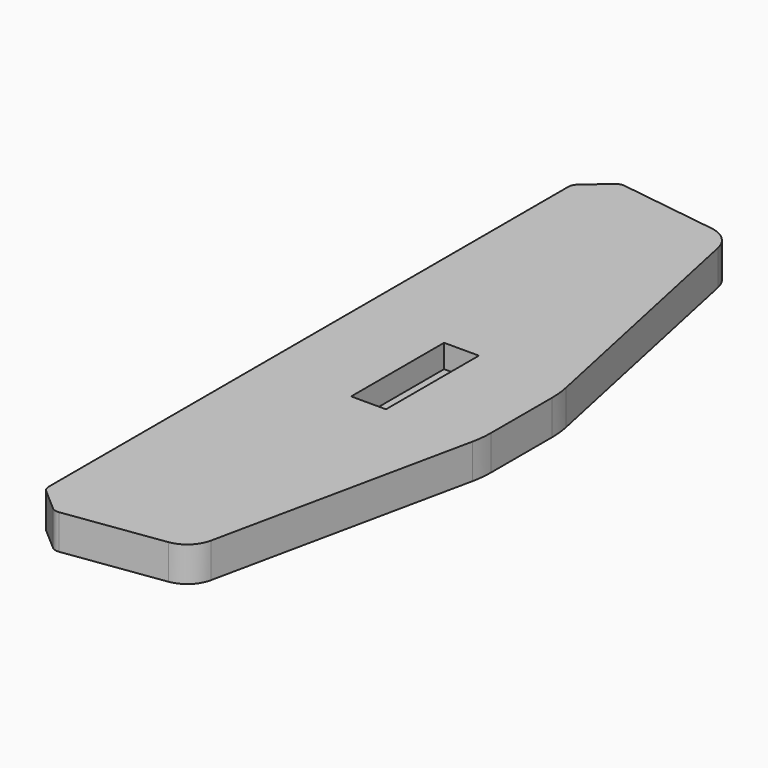
from build123d import *

# Parameters (mm, degrees)
PAD_DEPTH    = 18
SKETCH001_W  = 18
SKETCH001_H  = 60
POCKET_DEPTH = 12
CHAMFER_SIZE = 15
FILLET_R     = 5
FILLET001_R  = 15
FILLET002_R  = 50


with BuildPart() as part:
    # Sketch → Pad (new body)
    with BuildSketch(Plane.XY):
        Polygon((0, 185), (0, -185), (78.33092, -173.991307), (110, -25), (110, 25), (78.33092, 173.991307), align=None)
    extrude(amount=PAD_DEPTH)

    # Sketch001 → Pocket (cut)
    with BuildSketch(Plane.XY.offset(18)):
        with Locations((55, 0)):
            Rectangle(SKETCH001_W, SKETCH001_H)
    extrude(amount=-POCKET_DEPTH, mode=Mode.SUBTRACT)

    # Chamfer
    chamfer_edges = [part.edges().sort_by_distance(p)[0] for p in [
        (0, -185, 9),
        (0, 185, 9),
    ]]
    chamfer(chamfer_edges, length=CHAMFER_SIZE)

    # Fillet
    fillet_edges = [part.edges().sort_by_distance(p)[0] for p in [
        (14.854021, 182.912403, 9),
        (0, 170, 9),
        (0, -170, 9),
        (14.854021, -182.912403, 9),
    ]]
    fillet(fillet_edges, radius=FILLET_R)

    # Fillet001
    fillet001_edges = [part.edges().sort_by_distance(p)[0] for p in [
        (78.33092, -173.991307, 9),
        (78.33092, 173.991307, 9),
    ]]
    fillet(fillet001_edges, radius=FILLET001_R)

    # Fillet002
    fillet002_edges = [part.edges().sort_by_distance(p)[0] for p in [
        (110, -25, 9),
        (110, 25, 9),
    ]]
    fillet(fillet002_edges, radius=FILLET002_R)


solid = part.part
